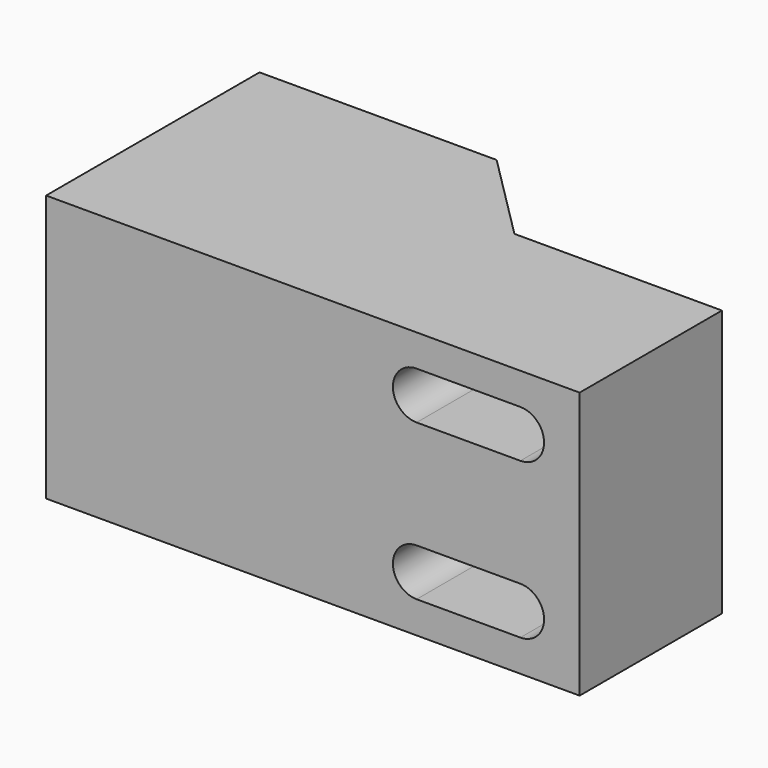
from build123d import *

# Parameters (mm, degrees)
F1_DEPTH = 9
F3_DEPTH = 18.001


with BuildPart() as f1:
    # F0 (on Top) → F1 (new body, symmetric)
    with BuildSketch(Plane.XY):
        Polygon((16, 9), (0, 9), (0, -9), (36, -9), (36, 3), (22, 3), align=None)
    extrude(amount=F1_DEPTH, both=True)

    # F2 (on face) → F3 (cut, through all)
    with BuildSketch(Plane.XZ.offset(9)):
        with BuildLine():
            ThreePointArc((32, 3.6499999762), (33.6000000238, 5.25), (32, 6.8500000238))
            Line((32, 6.8500000238), (25, 6.8500000238))
            ThreePointArc((25, 6.8500000238), (23.3999999762, 5.25), (25, 3.6499999762))
            Line((25, 3.6499999762), (32, 3.6499999762))
        make_face()
        with BuildLine():
            Line((25, -6.8500000238), (32, -6.8500000238))
            ThreePointArc((32, -6.8500000238), (33.6000000238, -5.25), (32, -3.6499999762))
            Line((32, -3.6499999762), (25, -3.6499999762))
            ThreePointArc((25, -3.6499999762), (23.3999999762, -5.25), (25, -6.8500000238))
        make_face()
    extrude(amount=-F3_DEPTH, mode=Mode.SUBTRACT)


solid = f1.part
